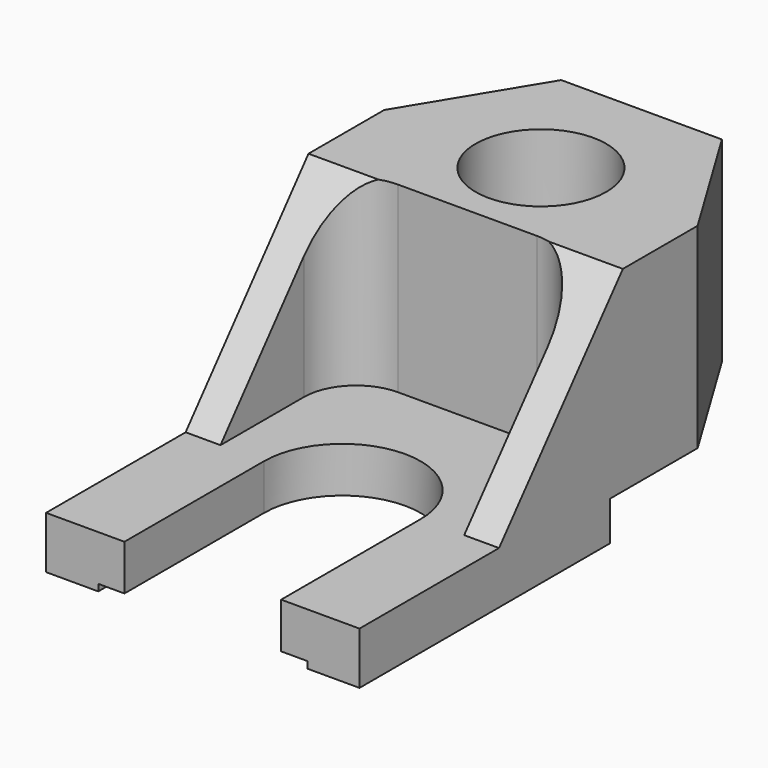
from build123d import *

# Parameters (mm, degrees)
F0_R      = 7.9375
F1_DEPTH  = 28.575
F3_DEPTH  = 0.8128
F2_R      = 7.9375
F4_DEPTH  = 4.7752
F6_DEPTH  = 22.225
F8_DEPTH  = 25.4
F10_DEPTH = 25.4
F11_R     = 6.35


with BuildPart() as f1:
    # F0 (on Top) → F1 (new body)
    with BuildSketch(Plane.XY):
        with BuildLine():
            ThreePointArc((-9.525, 0), (0, 9.525), (9.525, 0))
            Line((9.525, 0), (9.525, -21.203784))
            Line((9.525, -21.203784), (19.05, -21.203784))
            Line((19.05, -21.203784), (19.05, 30.1752))
            Line((19.05, 30.1752), (9.767071, 45.471216))
            Line((9.767071, 45.471216), (-9.767071, 45.471216))
            Line((-9.767071, 45.471216), (-19.05, 30.1752))
            Line((-19.05, 30.1752), (-19.05, -21.203784))
            Line((-19.05, -21.203784), (-9.525, -21.203784))
            Line((-9.525, -21.203784), (-9.525, 0))
        make_face()
        with Locations((0, 30.1752)):
            Circle(F0_R, mode=Mode.SUBTRACT)
    extrude(amount=F1_DEPTH)

    # F2 (on face) → F3 (cut)
    with BuildSketch(Plane(origin=(0, 0, 0), x_dir=(1, 0, 0), z_dir=(0, 0, -1))):
        with BuildLine():
            Line((-12.7, 21.203784), (-12.7, 0))
            ThreePointArc((-12.7, 0), (0, -12.7), (12.7, 0))
            Line((12.7, 0), (12.7, 21.203784))
            Line((12.7, 21.203784), (9.525, 21.203784))
            Line((9.525, 21.203784), (9.525, 0))
            ThreePointArc((9.525, 0), (0, -9.525), (-9.525, 0))
            Line((-9.525, 0), (-9.525, 21.203784))
            Line((-9.525, 21.203784), (-12.7, 21.203784))
        make_face()
    extrude(amount=-F3_DEPTH, mode=Mode.SUBTRACT)

    # F2 (on face) → F4 (cut)
    with BuildSketch(Plane(origin=(0, 0, 0), x_dir=(1, 0, 0), z_dir=(0, 0, -1))):
        Polygon((19.05, -16.896216), (-19.05, -16.896216), (-19.05, -30.1752), (-9.767071, -45.471216), (9.767071, -45.471216), (19.05, -30.1752), align=None)
        with Locations((0, -30.1752)):
            Circle(F2_R, mode=Mode.SUBTRACT)
    extrude(amount=-F4_DEPTH, mode=Mode.SUBTRACT)

    # F5 (on face) → F6 (cut)
    with BuildSketch(Plane.XY.offset(28.575)):
        with BuildLine():
            Line((-14.808481, 19.019462), (-14.808481, 0))
            Line((-14.808481, 0), (-19.05, 0))
            Line((-19.05, 0), (-19.05, -21.203784))
            Line((-19.05, -21.203784), (-9.525, -21.203784))
            Line((-9.525, -21.203784), (-9.525, 0))
            ThreePointArc((-9.525, 0), (0, 9.525), (9.525, 0))
            Line((9.525, 0), (9.525, -21.203784))
            Line((9.525, -21.203784), (19.05, -21.203784))
            Line((19.05, -21.203784), (19.05, 0))
            Line((19.05, 0), (14.808481, 0))
            Line((14.808481, 0), (14.808481, 19.019462))
            Line((14.808481, 19.019462), (-14.808481, 19.019462))
        make_face()
    extrude(amount=-F6_DEPTH, mode=Mode.SUBTRACT)

    # F7 (on face) → F8 (cut)
    with BuildSketch(Plane.YZ.offset(19.05)):
        Polygon((0, 28.575), (0, 6.35), (18.815449, 28.575), align=None)
    extrude(amount=-F8_DEPTH, mode=Mode.SUBTRACT)

    # F9 (on face) → F10 (cut)
    with BuildSketch(Plane(origin=(-19.05, 0, 0), x_dir=(0, -1, 0), z_dir=(-1, 0, 0))):
        Polygon((-18.669238, 28.575), (0, 6.35), (0, 28.575), align=None)
    extrude(amount=-F10_DEPTH, mode=Mode.SUBTRACT)

    # F11
    f11_edges = [f1.edges().sort_by_distance(p)[0] for p in [
        (-14.808481, 19.019462, 17.4625),
        (14.808481, 19.019462, 17.4625),
    ]]
    fillet(f11_edges, radius=F11_R)


solid = f1.part
